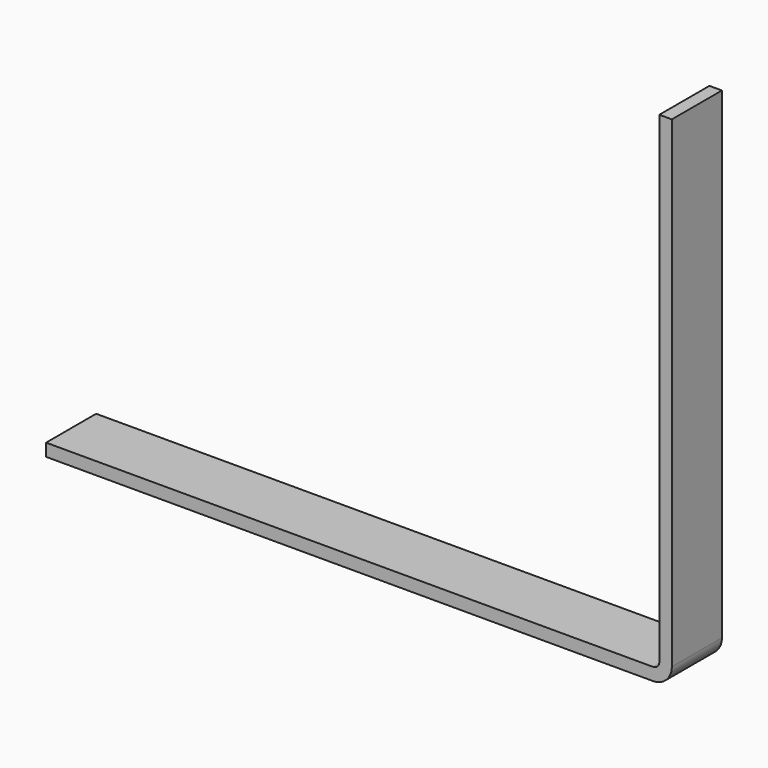
from build123d import *

# Parameters (mm, degrees)
F1_DEPTH = 50


with BuildPart() as f1:
    # F0 (on Front) → F1 (new body)
    with BuildSketch(Plane.XZ):
        with BuildLine():
            Line((-475.172447, 10), (-475.172447, 0))
            Line((-475.172447, 0), (9.827553, 0))
            ThreePointArc((9.827553, 0), (20.434155, 4.393398), (24.827553, 15))
            Line((24.827553, 15), (24.827553, 400))
            Line((24.827553, 400), (14.827553, 400))
            Line((14.827553, 400), (14.827553, 15))
            ThreePointArc((14.827553, 15), (13.363087, 11.464466), (9.827553, 10))
            Line((9.827553, 10), (-475.172447, 10))
        make_face()
    extrude(amount=F1_DEPTH)


solid = f1.part
